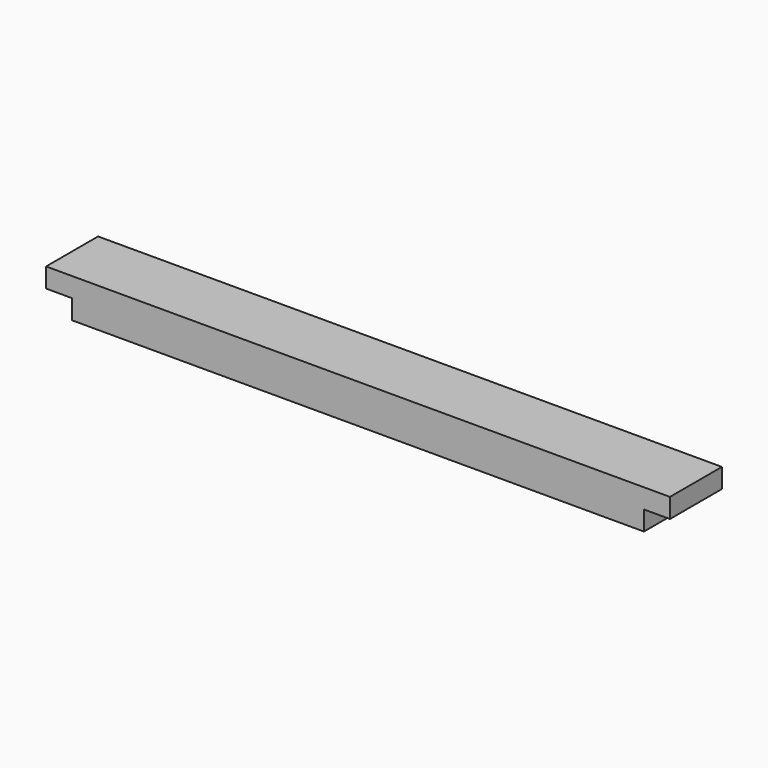
from build123d import *

# Parameters (mm, degrees)
F0_W     = 558.8
F0_H     = 63.5
F0_W_2   = 304.8
F0_H_2   = 19.05
F0_W_3   = 25.4
F0_H_3   = 25.4
F1_DEPTH = 19.05
F2_DEPTH = 38.1
F3_DEPTH = 19.05
F4_DEPTH = 38.1
F5_DEPTH = 6.35


with BuildPart() as f1:
    # F0 (on Top) → F1 (new body)
    with BuildSketch(Plane.XY):
        with Locations((-15.767200847, -75.8242455751)):
            Rectangle(F0_W, F0_H)
        with Locations((-15.767200847, -63.1242455751)):
            Rectangle(F0_W_2, F0_H_2, mode=Mode.SUBTRACT)
        with Locations((-307.867200847, -75.8242455751)):
            Rectangle(F0_W_3, F0_H)
        with Locations((-15.767200847, -31.3742455751)):
            Rectangle(F0_W, F0_H_3)
        with Locations((276.332799153, -75.8242455751)):
            Rectangle(F0_W_3, F0_H)
    extrude(amount=F1_DEPTH)

    # F0 (on Top) → F2 (join)
    with BuildSketch(Plane.XY):
        with Locations((-15.767200847, -75.8242455751)):
            Rectangle(F0_W, F0_H)
        with Locations((-15.767200847, -63.1242455751)):
            Rectangle(F0_W_2, F0_H_2, mode=Mode.SUBTRACT)
        with Locations((-307.867200847, -75.8242455751)):
            Rectangle(F0_W_3, F0_H)
        with Locations((276.332799153, -75.8242455751)):
            Rectangle(F0_W_3, F0_H)
    extrude(amount=F2_DEPTH)

    # F0 (on Top) → F3 (cut)
    with BuildSketch(Plane.XY):
        with Locations((-307.867200847, -75.8242455751)):
            Rectangle(F0_W_3, F0_H)
        with Locations((276.332799153, -75.8242455751)):
            Rectangle(F0_W_3, F0_H)
    extrude(amount=F3_DEPTH, mode=Mode.SUBTRACT)

    # F0 (on Top) → F4 (join)
    with BuildSketch(Plane.XY):
        with Locations((-15.767200847, -63.1242455751)):
            Rectangle(F0_W_2, F0_H_2)
    extrude(amount=F4_DEPTH)

    # F0 (on Top) → F5 (cut)
    with BuildSketch(Plane.XY):
        with Locations((-15.767200847, -63.1242455751)):
            Rectangle(F0_W_2, F0_H_2)
    extrude(amount=F5_DEPTH, mode=Mode.SUBTRACT)


solid = f1.part
